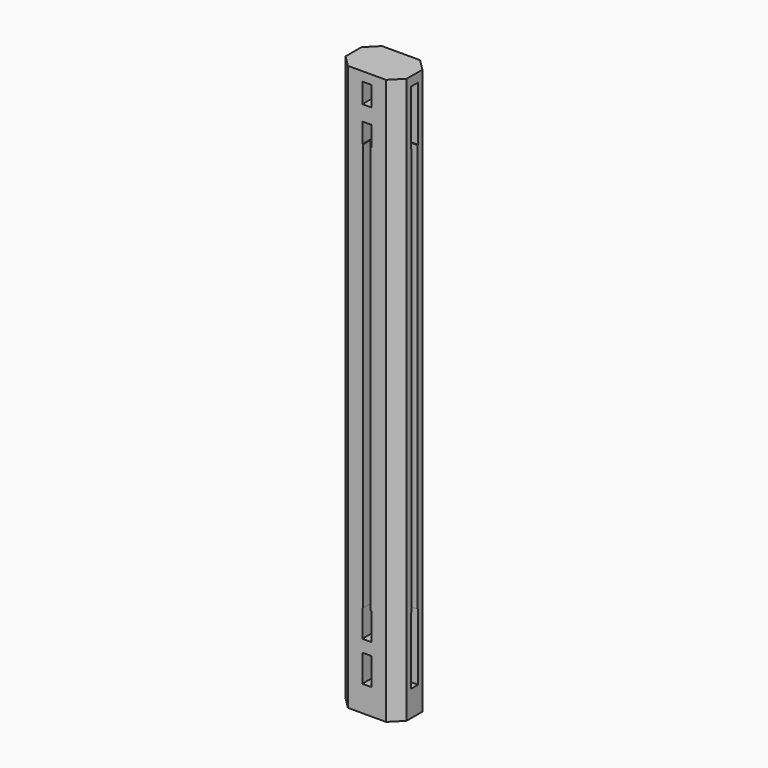
from build123d import *

# Parameters (mm, degrees)
F0_W     = 63.5
F0_H     = 44.45
F1_DEPTH = 588.9625
F3_DEPTH = 25.4
F2_W     = 7.9375
F2_H     = 425.45
F4_DEPTH = 9.525
F6_DEPTH = 9.525
F5_W     = 9.525
F5_H     = 20.7645
F5_H_2   = 28.575
F7_DEPTH = 44.451
F8_SIZE  = 11.90625


with BuildPart() as f1:
    # F0 (on Top) → F1 (new body)
    with BuildSketch(Plane.XY):
        with Locations((31.75, 22.225)):
            Rectangle(F0_W, F0_H)
    extrude(amount=F1_DEPTH)

    # F2 (on face) → F3 (cut)
    with BuildSketch(Plane.YZ.offset(63.5)):
        Polygon((26.9875, 579.4375), (17.4625, 579.4375), (17.4625, 522.2875), (18.25625, 522.2875), (26.19375, 522.2875), (26.9875, 522.2875), align=None)
        Polygon((26.19375, 96.8375), (18.25625, 96.8375), (17.4625, 96.8375), (17.4625, 26.9875), (26.9875, 26.9875), (26.9875, 96.8375), align=None)
    extrude(amount=-F3_DEPTH, mode=Mode.SUBTRACT)

    # F2 (on face) → F4 (cut)
    with BuildSketch(Plane.YZ.offset(63.5)):
        with Locations((22.225, 309.5625)):
            Rectangle(F2_W, F2_H)
    extrude(amount=-F4_DEPTH, mode=Mode.SUBTRACT)

    # F5 (on face) → F6 (cut)
    with BuildSketch(Plane.XZ):
        Polygon((35.71875, 522.0335), (28.575, 522.0335), (27.78125, 522.0335), (27.78125, 96.8375), (35.71875, 96.8375), align=None)
    extrude(amount=-F6_DEPTH, mode=Mode.SUBTRACT)

    # F5 (on face) → F7 (cut, through all)
    with BuildSketch(Plane.XZ):
        with Locations((31.75, 569.05525)):
            Rectangle(F5_W, F5_H)
        Polygon((27.78125, 522.0335), (28.575, 522.0335), (35.71875, 522.0335), (36.5125, 522.0335), (36.5125, 542.798), (26.9875, 542.798), (26.9875, 522.0335), align=None)
        Polygon((35.71875, 96.8375), (27.78125, 96.8375), (26.9875, 96.8375), (26.9875, 68.2625), (36.5125, 68.2625), (36.5125, 96.8375), align=None)
        with Locations((31.75, 41.275)):
            Rectangle(F5_W, F5_H_2)
    extrude(amount=-F7_DEPTH, mode=Mode.SUBTRACT)

    # F8
    f8_edges = [f1.edges().sort_by_distance(p)[0] for p in [
        (63.5, 44.45, 294.48125),
        (0, 44.45, 294.48125),
        (63.5, 0, 294.48125),
        (0, 0, 294.48125),
    ]]
    chamfer(f8_edges, length=F8_SIZE)


solid = f1.part
